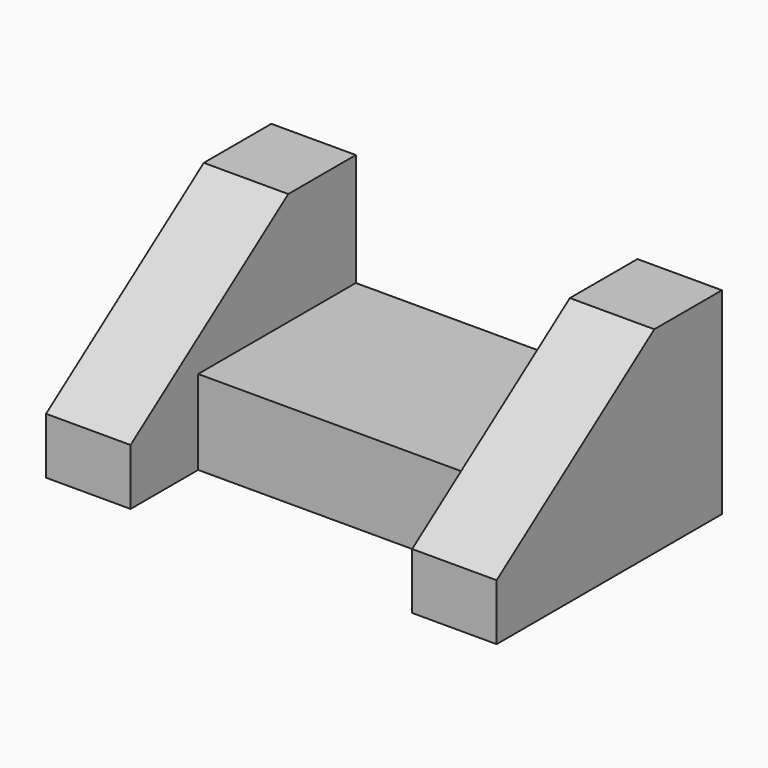
from build123d import *

# Parameters (mm, degrees)
F1_DEPTH = 19.05
F2_W     = 44.45
F2_H     = 19.05
F3_DEPTH = 63.5
F5_DEPTH = 19.05


with BuildPart() as f1:
    # F0 (on Right) → F1 (new body)
    with BuildSketch(Plane.YZ):
        Polygon((0, 12.7), (0, 0), (63.5, 0), (63.5, 44.45), (44.45, 44.45), align=None)
    extrude(amount=-F1_DEPTH)

    # F2 (on face) → F3 (join)
    with BuildSketch(Plane(origin=(-19.05, 0, 0), x_dir=(0, -1, 0), z_dir=(-1, 0, 0))):
        with Locations((-41.275, 9.525)):
            Rectangle(F2_W, F2_H)
    extrude(amount=F3_DEPTH)

    # F4 (on face) → F5 (join)
    with BuildSketch(Plane(origin=(-82.55, 0, 0), x_dir=(0, -1, 0), z_dir=(-1, 0, 0))):
        Polygon((-63.5, 44.45), (-63.5, 0), (0, 0), (0, 12.7), (-44.45, 44.45), align=None)
    extrude(amount=F5_DEPTH)


solid = f1.part
